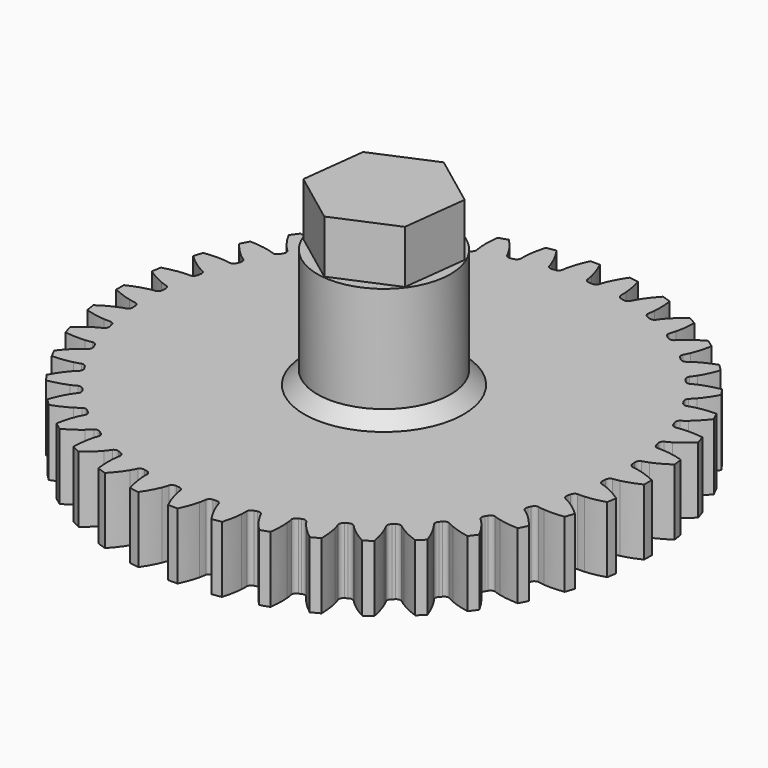
from build123d import *

# Parameters (mm, degrees)
SKETCH010_R     = 5.03
PAD007_DEPTH    = 14
PAD008_DEPTH    = 4
PAD009_DEPTH    = 5
POCKET001_DEPTH = 4


with BuildPart() as part:
    # Sketch010 → Pad007 (new body)
    with BuildSketch(Plane.XY):
        Circle(SKETCH010_R)
    extrude(amount=PAD007_DEPTH)

    # Sketch011 → Pad008 (join)
    with BuildSketch(Plane.XY.offset(14)):
        Polygon((3.951295, -2.96494), (4.543361, 1.939452), (0.592066, 4.904392), (-3.951295, 2.96494), (-4.543361, -1.939452), (-0.592066, -4.904392), align=None)
    extrude(amount=PAD008_DEPTH)

    # Sketch012 → Revolution002 (revolve)
    with BuildSketch(Plane.YZ):
        Polygon((5.03, 6), (6.03, 5), (5.03, 5), align=None)
    revolve(axis=Axis((0, 0, 0), (0, 0, 1)))

    # InvoluteGear002 → Pad009 (join)
    with BuildSketch(Plane.XY):
        with BuildLine():
            add(Edge.make_bspline(
                [(18.024562, -0.957942), (18.140787, -0.946937), (18.307583, -0.923429), (18.522739, -0.87391)],
                knots=[0, 0, 0, 0, 1, 1, 1, 1], degree=3))
            add(Edge.make_bspline(
                [(18.522739, -0.87391), (18.877968, -0.792013), (19.360047, -0.640409), (19.947321, -0.36108)],
                knots=[0, 0, 0, 0, 1, 1, 1, 1], degree=3))
            ThreePointArc((19.947321, -0.36108), (19.950589, 0), (19.947321, 0.36108))
            add(Edge.make_bspline(
                [(19.947321, 0.36108), (19.360047, 0.640409), (18.877968, 0.792013), (18.522739, 0.87391)],
                knots=[0, 0, 0, 0, 1, 1, 1, 1], degree=3))
            add(Edge.make_bspline(
                [(18.522739, 0.87391), (18.307583, 0.923429), (18.140787, 0.946937), (18.024646, 0.957929)],
                knots=[0, 0, 0, 0, 1, 1, 1, 1], degree=3))
            ThreePointArc((18.024646, 0.957929), (17.839579, 1.083098), (17.765446, 1.293861))
            ThreePointArc((17.765446, 1.293861), (17.75759, 1.397553), (17.749129, 1.501197))
            ThreePointArc((17.749129, 1.501197), (17.789353, 1.72093), (17.952505, 1.873515))
            add(Edge.make_bspline(
                [(17.952505, 1.873515), (18.065577, 1.902566), (18.226642, 1.951876), (18.431403, 2.034444)],
                knots=[0, 0, 0, 0, 1, 1, 1, 1], degree=3))
            add(Edge.make_bspline(
                [(18.431403, 2.034444), (18.769447, 2.170903), (19.221874, 2.396054), (19.758222, 2.763814)],
                knots=[0, 0, 0, 0, 1, 1, 1, 1], degree=3))
            ThreePointArc((19.758222, 2.763814), (19.704964, 3.12096), (19.645251, 3.477083))
            add(Edge.make_bspline(
                [(19.645251, 3.477083), (19.02151, 3.661103), (18.52165, 3.735427), (18.157983, 3.760746)],
                knots=[0, 0, 0, 0, 1, 1, 1, 1], degree=3))
            add(Edge.make_bspline(
                [(18.157983, 3.760746), (17.93773, 3.775997), (17.76931, 3.773123), (17.65288, 3.765812)],
                knots=[0, 0, 0, 0, 1, 1, 1, 1], degree=3))
            ThreePointArc((17.65288, 3.765812), (17.450511, 3.860488), (17.34432, 4.057059))
            ThreePointArc((17.34432, 4.057059), (17.320339, 4.158246), (17.295768, 4.25929))
            ThreePointArc((17.295768, 4.25929), (17.301124, 4.482611), (17.438398, 4.658839))
            add(Edge.make_bspline(
                [(17.438398, 4.658839), (17.545533, 4.705221), (17.696902, 4.779121), (17.886225, 4.892703)],
                knots=[0, 0, 0, 0, 1, 1, 1, 1], degree=3))
            add(Edge.make_bspline(
                [(17.886225, 4.892703), (18.19876, 5.080364), (18.610396, 5.373519), (19.08261, 5.820654)],
                knots=[0, 0, 0, 0, 1, 1, 1, 1], degree=3))
            ThreePointArc((19.08261, 5.820654), (18.974138, 6.165071), (18.85945, 6.507469))
            add(Edge.make_bspline(
                [(18.85945, 6.507469), (18.214601, 6.591648), (17.709269, 6.586862), (17.346118, 6.554979)],
                knots=[0, 0, 0, 0, 1, 1, 1, 1], degree=3))
            add(Edge.make_bspline(
                [(17.346118, 6.554979), (17.126191, 6.535588), (16.960294, 6.506402), (16.846441, 6.480967)],
                knots=[0, 0, 0, 0, 1, 1, 1, 1], degree=3))
            ThreePointArc((16.846441, 6.480967), (16.631752, 6.54282), (16.496118, 6.72036))
            ThreePointArc((16.496118, 6.72036), (16.456604, 6.816549), (16.416529, 6.912505))
            ThreePointArc((16.416529, 6.912505), (16.386883, 7.133914), (16.494899, 7.329448))
            add(Edge.make_bspline(
                [(16.494899, 7.329448), (16.59346, 7.392018), (16.731404, 7.488687), (16.900628, 7.630488)],
                knots=[0, 0, 0, 0, 1, 1, 1, 1], degree=3))
            add(Edge.make_bspline(
                [(16.900628, 7.630488), (17.179959, 7.864729), (17.540667, 8.218669), (17.93712, 8.73417)],
                knots=[0, 0, 0, 0, 1, 1, 1, 1], degree=3))
            ThreePointArc((17.93712, 8.73417), (17.776105, 9.057378), (17.609266, 9.377619))
            add(Edge.make_bspline(
                [(17.609266, 9.377619), (16.959188, 9.359886), (16.460826, 9.276107), (16.107134, 9.187807)],
                knots=[0, 0, 0, 0, 1, 1, 1, 1], degree=3))
            add(Edge.make_bspline(
                [(16.107134, 9.187807), (15.892948, 9.13425), (15.733659, 9.079472), (15.625186, 9.036539)],
                knots=[0, 0, 0, 0, 1, 1, 1, 1], degree=3))
            ThreePointArc((15.625186, 9.036539), (15.403465, 9.064046), (15.241728, 9.218182))
            ThreePointArc((15.241728, 9.218182), (15.187653, 9.307006), (15.13306, 9.395512))
            ThreePointArc((15.13306, 9.395512), (15.069143, 9.609557), (15.145241, 9.819581))
            add(Edge.make_bspline(
                [(15.145241, 9.819581), (15.2328, 9.896799), (15.353924, 10.013857), (15.498882, 10.180384)],
                knots=[0, 0, 0, 0, 1, 1, 1, 1], degree=3))
            add(Edge.make_bspline(
                [(15.498882, 10.180384), (15.73813, 10.455439), (16.03903, 10.861448), (16.34996, 11.432621)],
                knots=[0, 0, 0, 0, 1, 1, 1, 1], degree=3))
            ThreePointArc((16.34996, 11.432621), (16.140366, 11.726662), (15.925484, 12.016861))
            add(Edge.make_bspline(
                [(15.925484, 12.016861), (15.286184, 11.897651), (14.807063, 11.736943), (14.471539, 11.594401)],
                knots=[0, 0, 0, 0, 1, 1, 1, 1], degree=3))
            add(Edge.make_bspline(
                [(14.471539, 11.594401), (14.268368, 11.507997), (14.119609, 11.428975), (14.019188, 11.369602)],
                knots=[0, 0, 0, 0, 1, 1, 1, 1], degree=3))
            ThreePointArc((14.019188, 11.369602), (13.795894, 11.362086), (13.612036, 11.489023))
            ThreePointArc((13.612036, 11.489023), (13.544731, 11.568293), (13.476965, 11.64717))
            ThreePointArc((13.476965, 11.64717), (13.380351, 11.848581), (13.422657, 12.067923))
            add(Edge.make_bspline(
                [(13.422657, 12.067923), (13.497059, 12.157888), (13.598379, 12.292453), (13.715502, 12.479606)],
                knots=[0, 0, 0, 0, 1, 1, 1, 1], degree=3))
            add(Edge.make_bspline(
                [(13.715502, 12.479606), (13.908777, 12.788701), (14.142458, 13.236783), (14.360208, 13.849564)],
                knots=[0, 0, 0, 0, 1, 1, 1, 1], degree=3))
            ThreePointArc((14.360208, 13.849564), (14.107197, 14.107197), (13.849564, 14.360208))
            add(Edge.make_bspline(
                [(13.849564, 14.360208), (13.236783, 14.142458), (12.788701, 13.908777), (12.479606, 13.715502)],
                knots=[0, 0, 0, 0, 1, 1, 1, 1], degree=3))
            add(Edge.make_bspline(
                [(12.479606, 13.715502), (12.292453, 13.598379), (12.157888, 13.497059), (12.067991, 13.422708)],
                knots=[0, 0, 0, 0, 1, 1, 1, 1], degree=3))
            ThreePointArc((12.067991, 13.422708), (11.848622, 13.380353), (11.64717, 13.476965))
            ThreePointArc((11.64717, 13.476965), (11.568293, 13.544731), (11.489023, 13.612036))
            ThreePointArc((11.489023, 13.612036), (11.362091, 13.795853), (11.369563, 14.019113))
            add(Edge.make_bspline(
                [(11.369563, 14.019113), (11.428975, 14.119609), (11.507997, 14.268368), (11.594401, 14.471539)],
                knots=[0, 0, 0, 0, 1, 1, 1, 1], degree=3))
            add(Edge.make_bspline(
                [(11.594401, 14.471539), (11.736943, 14.807063), (11.897651, 15.286184), (12.016861, 15.925484)],
                knots=[0, 0, 0, 0, 1, 1, 1, 1], degree=3))
            ThreePointArc((12.016861, 15.925484), (11.726662, 16.140366), (11.432621, 16.34996))
            add(Edge.make_bspline(
                [(11.432621, 16.34996), (10.861448, 16.03903), (10.455439, 15.73813), (10.180384, 15.498882)],
                knots=[0, 0, 0, 0, 1, 1, 1, 1], degree=3))
            add(Edge.make_bspline(
                [(10.180384, 15.498882), (10.013857, 15.353924), (9.896799, 15.2328), (9.81964, 15.145302)],
                knots=[0, 0, 0, 0, 1, 1, 1, 1], degree=3))
            ThreePointArc((9.81964, 15.145302), (9.609597, 15.069151), (9.395512, 15.13306))
            ThreePointArc((9.395512, 15.13306), (9.307006, 15.187653), (9.218182, 15.241728))
            ThreePointArc((9.218182, 15.241728), (9.064057, 15.403426), (9.036512, 15.625106))
            add(Edge.make_bspline(
                [(9.036512, 15.625106), (9.079472, 15.733659), (9.13425, 15.892948), (9.187807, 16.107134)],
                knots=[0, 0, 0, 0, 1, 1, 1, 1], degree=3))
            add(Edge.make_bspline(
                [(9.187807, 16.107134), (9.276107, 16.460826), (9.359886, 16.959188), (9.377619, 17.609266)],
                knots=[0, 0, 0, 0, 1, 1, 1, 1], degree=3))
            ThreePointArc((9.377619, 17.609266), (9.057378, 17.776105), (8.73417, 17.93712))
            add(Edge.make_bspline(
                [(8.73417, 17.93712), (8.218669, 17.540667), (7.864729, 17.179959), (7.630488, 16.900628)],
                knots=[0, 0, 0, 0, 1, 1, 1, 1], degree=3))
            add(Edge.make_bspline(
                [(7.630488, 16.900628), (7.488687, 16.731404), (7.392018, 16.59346), (7.329497, 16.494968)],
                knots=[0, 0, 0, 0, 1, 1, 1, 1], degree=3))
            ThreePointArc((7.329497, 16.494968), (7.133952, 16.386897), (6.912505, 16.416529))
            ThreePointArc((6.912505, 16.416529), (6.816549, 16.456604), (6.72036, 16.496118))
            ThreePointArc((6.72036, 16.496118), (6.542837, 16.631715), (6.480953, 16.846357))
            add(Edge.make_bspline(
                [(6.480953, 16.846357), (6.506402, 16.960294), (6.535588, 17.126191), (6.554979, 17.346118)],
                knots=[0, 0, 0, 0, 1, 1, 1, 1], degree=3))
            add(Edge.make_bspline(
                [(6.554979, 17.346118), (6.586862, 17.709269), (6.591648, 18.214601), (6.507469, 18.85945)],
                knots=[0, 0, 0, 0, 1, 1, 1, 1], degree=3))
            ThreePointArc((6.507469, 18.85945), (6.165071, 18.974138), (5.820654, 19.08261))
            add(Edge.make_bspline(
                [(5.820654, 19.08261), (5.373519, 18.610396), (5.080364, 18.19876), (4.892703, 17.886225)],
                knots=[0, 0, 0, 0, 1, 1, 1, 1], degree=3))
            add(Edge.make_bspline(
                [(4.892703, 17.886225), (4.779121, 17.696902), (4.705221, 17.545533), (4.658877, 17.438474)],
                knots=[0, 0, 0, 0, 1, 1, 1, 1], degree=3))
            ThreePointArc((4.658877, 17.438474), (4.482646, 17.301144), (4.25929, 17.295768))
            ThreePointArc((4.25929, 17.295768), (4.158246, 17.320339), (4.057059, 17.34432))
            ThreePointArc((4.057059, 17.34432), (3.86051, 17.450477), (3.765811, 17.652795))
            add(Edge.make_bspline(
                [(3.765811, 17.652795), (3.773123, 17.76931), (3.775997, 17.93773), (3.760746, 18.157983)],
                knots=[0, 0, 0, 0, 1, 1, 1, 1], degree=3))
            add(Edge.make_bspline(
                [(3.760746, 18.157983), (3.735427, 18.52165), (3.661103, 19.02151), (3.477083, 19.645251)],
                knots=[0, 0, 0, 0, 1, 1, 1, 1], degree=3))
            ThreePointArc((3.477083, 19.645251), (3.12096, 19.704964), (2.763814, 19.758222))
            add(Edge.make_bspline(
                [(2.763814, 19.758222), (2.396054, 19.221874), (2.170903, 18.769447), (2.034444, 18.431403)],
                knots=[0, 0, 0, 0, 1, 1, 1, 1], degree=3))
            add(Edge.make_bspline(
                [(2.034444, 18.431403), (1.951876, 18.226642), (1.902566, 18.065577), (1.87354, 17.952586)],
                knots=[0, 0, 0, 0, 1, 1, 1, 1], degree=3))
            ThreePointArc((1.87354, 17.952586), (1.720962, 17.789378), (1.501197, 17.749129))
            ThreePointArc((1.501197, 17.749129), (1.397553, 17.75759), (1.293861, 17.765446))
            ThreePointArc((1.293861, 17.765446), (1.083125, 17.839549), (0.957942, 18.024562))
            add(Edge.make_bspline(
                [(0.957942, 18.024562), (0.946937, 18.140787), (0.923429, 18.307583), (0.87391, 18.522739)],
                knots=[0, 0, 0, 0, 1, 1, 1, 1], degree=3))
            add(Edge.make_bspline(
                [(0.87391, 18.522739), (0.792013, 18.877968), (0.640409, 19.360047), (0.36108, 19.947321)],
                knots=[0, 0, 0, 0, 1, 1, 1, 1], degree=3))
            ThreePointArc((0.36108, 19.947321), (0, 19.950589), (-0.36108, 19.947321))
            add(Edge.make_bspline(
                [(-0.36108, 19.947321), (-0.640409, 19.360047), (-0.792013, 18.877968), (-0.87391, 18.522739)],
                knots=[0, 0, 0, 0, 1, 1, 1, 1], degree=3))
            add(Edge.make_bspline(
                [(-0.87391, 18.522739), (-0.923429, 18.307583), (-0.946937, 18.140787), (-0.957929, 18.024646)],
                knots=[0, 0, 0, 0, 1, 1, 1, 1], degree=3))
            ThreePointArc((-0.957929, 18.024646), (-1.083098, 17.839579), (-1.293861, 17.765446))
            ThreePointArc((-1.293861, 17.765446), (-1.397553, 17.75759), (-1.501197, 17.749129))
            ThreePointArc((-1.501197, 17.749129), (-1.72093, 17.789353), (-1.873515, 17.952505))
            add(Edge.make_bspline(
                [(-1.873515, 17.952505), (-1.902566, 18.065577), (-1.951876, 18.226642), (-2.034444, 18.431403)],
                knots=[0, 0, 0, 0, 1, 1, 1, 1], degree=3))
            add(Edge.make_bspline(
                [(-2.034444, 18.431403), (-2.170903, 18.769447), (-2.396054, 19.221874), (-2.763814, 19.758222)],
                knots=[0, 0, 0, 0, 1, 1, 1, 1], degree=3))
            ThreePointArc((-2.763814, 19.758222), (-3.12096, 19.704964), (-3.477083, 19.645251))
            add(Edge.make_bspline(
                [(-3.477083, 19.645251), (-3.661103, 19.02151), (-3.735427, 18.52165), (-3.760746, 18.157983)],
                knots=[0, 0, 0, 0, 1, 1, 1, 1], degree=3))
            add(Edge.make_bspline(
                [(-3.760746, 18.157983), (-3.775997, 17.93773), (-3.773123, 17.76931), (-3.765812, 17.65288)],
                knots=[0, 0, 0, 0, 1, 1, 1, 1], degree=3))
            ThreePointArc((-3.765812, 17.65288), (-3.860488, 17.450511), (-4.057059, 17.34432))
            ThreePointArc((-4.057059, 17.34432), (-4.158246, 17.320339), (-4.25929, 17.295768))
            ThreePointArc((-4.25929, 17.295768), (-4.482611, 17.301124), (-4.658839, 17.438398))
            add(Edge.make_bspline(
                [(-4.658839, 17.438398), (-4.705221, 17.545533), (-4.779121, 17.696902), (-4.892703, 17.886225)],
                knots=[0, 0, 0, 0, 1, 1, 1, 1], degree=3))
            add(Edge.make_bspline(
                [(-4.892703, 17.886225), (-5.080364, 18.19876), (-5.373519, 18.610396), (-5.820654, 19.08261)],
                knots=[0, 0, 0, 0, 1, 1, 1, 1], degree=3))
            ThreePointArc((-5.820654, 19.08261), (-6.165071, 18.974138), (-6.507469, 18.85945))
            add(Edge.make_bspline(
                [(-6.507469, 18.85945), (-6.591648, 18.214601), (-6.586862, 17.709269), (-6.554979, 17.346118)],
                knots=[0, 0, 0, 0, 1, 1, 1, 1], degree=3))
            add(Edge.make_bspline(
                [(-6.554979, 17.346118), (-6.535588, 17.126191), (-6.506402, 16.960294), (-6.480967, 16.846441)],
                knots=[0, 0, 0, 0, 1, 1, 1, 1], degree=3))
            ThreePointArc((-6.480967, 16.846441), (-6.54282, 16.631752), (-6.72036, 16.496118))
            ThreePointArc((-6.72036, 16.496118), (-6.816549, 16.456604), (-6.912505, 16.416529))
            ThreePointArc((-6.912505, 16.416529), (-7.133914, 16.386883), (-7.329448, 16.494899))
            add(Edge.make_bspline(
                [(-7.329448, 16.494899), (-7.392018, 16.59346), (-7.488687, 16.731404), (-7.630488, 16.900628)],
                knots=[0, 0, 0, 0, 1, 1, 1, 1], degree=3))
            add(Edge.make_bspline(
                [(-7.630488, 16.900628), (-7.864729, 17.179959), (-8.218669, 17.540667), (-8.73417, 17.93712)],
                knots=[0, 0, 0, 0, 1, 1, 1, 1], degree=3))
            ThreePointArc((-8.73417, 17.93712), (-9.057378, 17.776105), (-9.377619, 17.609266))
            add(Edge.make_bspline(
                [(-9.377619, 17.609266), (-9.359886, 16.959188), (-9.276107, 16.460826), (-9.187807, 16.107134)],
                knots=[0, 0, 0, 0, 1, 1, 1, 1], degree=3))
            add(Edge.make_bspline(
                [(-9.187807, 16.107134), (-9.13425, 15.892948), (-9.079472, 15.733659), (-9.036539, 15.625186)],
                knots=[0, 0, 0, 0, 1, 1, 1, 1], degree=3))
            ThreePointArc((-9.036539, 15.625186), (-9.064046, 15.403465), (-9.218182, 15.241728))
            ThreePointArc((-9.218182, 15.241728), (-9.307006, 15.187653), (-9.395512, 15.13306))
            ThreePointArc((-9.395512, 15.13306), (-9.609557, 15.069143), (-9.819581, 15.145241))
            add(Edge.make_bspline(
                [(-9.819581, 15.145241), (-9.896799, 15.2328), (-10.013857, 15.353924), (-10.180384, 15.498882)],
                knots=[0, 0, 0, 0, 1, 1, 1, 1], degree=3))
            add(Edge.make_bspline(
                [(-10.180384, 15.498882), (-10.455439, 15.73813), (-10.861448, 16.03903), (-11.432621, 16.34996)],
                knots=[0, 0, 0, 0, 1, 1, 1, 1], degree=3))
            ThreePointArc((-11.432621, 16.34996), (-11.726662, 16.140366), (-12.016861, 15.925484))
            add(Edge.make_bspline(
                [(-12.016861, 15.925484), (-11.897651, 15.286184), (-11.736943, 14.807063), (-11.594401, 14.471539)],
                knots=[0, 0, 0, 0, 1, 1, 1, 1], degree=3))
            add(Edge.make_bspline(
                [(-11.594401, 14.471539), (-11.507997, 14.268368), (-11.428975, 14.119609), (-11.369602, 14.019188)],
                knots=[0, 0, 0, 0, 1, 1, 1, 1], degree=3))
            ThreePointArc((-11.369602, 14.019188), (-11.362086, 13.795894), (-11.489023, 13.612036))
            ThreePointArc((-11.489023, 13.612036), (-11.568293, 13.544731), (-11.64717, 13.476965))
            ThreePointArc((-11.64717, 13.476965), (-11.848581, 13.380351), (-12.067923, 13.422657))
            add(Edge.make_bspline(
                [(-12.067923, 13.422657), (-12.157888, 13.497059), (-12.292453, 13.598379), (-12.479606, 13.715502)],
                knots=[0, 0, 0, 0, 1, 1, 1, 1], degree=3))
            add(Edge.make_bspline(
                [(-12.479606, 13.715502), (-12.788701, 13.908777), (-13.236783, 14.142458), (-13.849564, 14.360208)],
                knots=[0, 0, 0, 0, 1, 1, 1, 1], degree=3))
            ThreePointArc((-13.849564, 14.360208), (-14.107197, 14.107197), (-14.360208, 13.849564))
            add(Edge.make_bspline(
                [(-14.360208, 13.849564), (-14.142458, 13.236783), (-13.908777, 12.788701), (-13.715502, 12.479606)],
                knots=[0, 0, 0, 0, 1, 1, 1, 1], degree=3))
            add(Edge.make_bspline(
                [(-13.715502, 12.479606), (-13.598379, 12.292453), (-13.497059, 12.157888), (-13.422708, 12.067991)],
                knots=[0, 0, 0, 0, 1, 1, 1, 1], degree=3))
            ThreePointArc((-13.422708, 12.067991), (-13.380353, 11.848622), (-13.476965, 11.64717))
            ThreePointArc((-13.476965, 11.64717), (-13.544731, 11.568293), (-13.612036, 11.489023))
            ThreePointArc((-13.612036, 11.489023), (-13.795853, 11.362091), (-14.019113, 11.369563))
            add(Edge.make_bspline(
                [(-14.019113, 11.369563), (-14.119609, 11.428975), (-14.268368, 11.507997), (-14.471539, 11.594401)],
                knots=[0, 0, 0, 0, 1, 1, 1, 1], degree=3))
            add(Edge.make_bspline(
                [(-14.471539, 11.594401), (-14.807063, 11.736943), (-15.286184, 11.897651), (-15.925484, 12.016861)],
                knots=[0, 0, 0, 0, 1, 1, 1, 1], degree=3))
            ThreePointArc((-15.925484, 12.016861), (-16.140366, 11.726662), (-16.34996, 11.432621))
            add(Edge.make_bspline(
                [(-16.34996, 11.432621), (-16.03903, 10.861448), (-15.73813, 10.455439), (-15.498882, 10.180384)],
                knots=[0, 0, 0, 0, 1, 1, 1, 1], degree=3))
            add(Edge.make_bspline(
                [(-15.498882, 10.180384), (-15.353924, 10.013857), (-15.2328, 9.896799), (-15.145302, 9.81964)],
                knots=[0, 0, 0, 0, 1, 1, 1, 1], degree=3))
            ThreePointArc((-15.145302, 9.81964), (-15.069151, 9.609597), (-15.13306, 9.395512))
            ThreePointArc((-15.13306, 9.395512), (-15.187653, 9.307006), (-15.241728, 9.218182))
            ThreePointArc((-15.241728, 9.218182), (-15.403426, 9.064057), (-15.625106, 9.036512))
            add(Edge.make_bspline(
                [(-15.625106, 9.036512), (-15.733659, 9.079472), (-15.892948, 9.13425), (-16.107134, 9.187807)],
                knots=[0, 0, 0, 0, 1, 1, 1, 1], degree=3))
            add(Edge.make_bspline(
                [(-16.107134, 9.187807), (-16.460826, 9.276107), (-16.959188, 9.359886), (-17.609266, 9.377619)],
                knots=[0, 0, 0, 0, 1, 1, 1, 1], degree=3))
            ThreePointArc((-17.609266, 9.377619), (-17.776105, 9.057378), (-17.93712, 8.73417))
            add(Edge.make_bspline(
                [(-17.93712, 8.73417), (-17.540667, 8.218669), (-17.179959, 7.864729), (-16.900628, 7.630488)],
                knots=[0, 0, 0, 0, 1, 1, 1, 1], degree=3))
            add(Edge.make_bspline(
                [(-16.900628, 7.630488), (-16.731404, 7.488687), (-16.59346, 7.392018), (-16.494968, 7.329497)],
                knots=[0, 0, 0, 0, 1, 1, 1, 1], degree=3))
            ThreePointArc((-16.494968, 7.329497), (-16.386897, 7.133952), (-16.416529, 6.912505))
            ThreePointArc((-16.416529, 6.912505), (-16.456604, 6.816549), (-16.496118, 6.72036))
            ThreePointArc((-16.496118, 6.72036), (-16.631715, 6.542837), (-16.846357, 6.480953))
            add(Edge.make_bspline(
                [(-16.846357, 6.480953), (-16.960294, 6.506402), (-17.126191, 6.535588), (-17.346118, 6.554979)],
                knots=[0, 0, 0, 0, 1, 1, 1, 1], degree=3))
            add(Edge.make_bspline(
                [(-17.346118, 6.554979), (-17.709269, 6.586862), (-18.214601, 6.591648), (-18.85945, 6.507469)],
                knots=[0, 0, 0, 0, 1, 1, 1, 1], degree=3))
            ThreePointArc((-18.85945, 6.507469), (-18.974138, 6.165071), (-19.08261, 5.820654))
            add(Edge.make_bspline(
                [(-19.08261, 5.820654), (-18.610396, 5.373519), (-18.19876, 5.080364), (-17.886225, 4.892703)],
                knots=[0, 0, 0, 0, 1, 1, 1, 1], degree=3))
            add(Edge.make_bspline(
                [(-17.886225, 4.892703), (-17.696902, 4.779121), (-17.545533, 4.705221), (-17.438474, 4.658877)],
                knots=[0, 0, 0, 0, 1, 1, 1, 1], degree=3))
            ThreePointArc((-17.438474, 4.658877), (-17.301144, 4.482646), (-17.295768, 4.25929))
            ThreePointArc((-17.295768, 4.25929), (-17.320339, 4.158246), (-17.34432, 4.057059))
            ThreePointArc((-17.34432, 4.057059), (-17.450477, 3.86051), (-17.652795, 3.765811))
            add(Edge.make_bspline(
                [(-17.652795, 3.765811), (-17.76931, 3.773123), (-17.93773, 3.775997), (-18.157983, 3.760746)],
                knots=[0, 0, 0, 0, 1, 1, 1, 1], degree=3))
            add(Edge.make_bspline(
                [(-18.157983, 3.760746), (-18.52165, 3.735427), (-19.02151, 3.661103), (-19.645251, 3.477083)],
                knots=[0, 0, 0, 0, 1, 1, 1, 1], degree=3))
            ThreePointArc((-19.645251, 3.477083), (-19.704964, 3.12096), (-19.758222, 2.763814))
            add(Edge.make_bspline(
                [(-19.758222, 2.763814), (-19.221874, 2.396054), (-18.769447, 2.170903), (-18.431403, 2.034444)],
                knots=[0, 0, 0, 0, 1, 1, 1, 1], degree=3))
            add(Edge.make_bspline(
                [(-18.431403, 2.034444), (-18.226642, 1.951876), (-18.065577, 1.902566), (-17.952586, 1.87354)],
                knots=[0, 0, 0, 0, 1, 1, 1, 1], degree=3))
            ThreePointArc((-17.952586, 1.87354), (-17.789378, 1.720962), (-17.749129, 1.501197))
            ThreePointArc((-17.749129, 1.501197), (-17.75759, 1.397553), (-17.765446, 1.293861))
            ThreePointArc((-17.765446, 1.293861), (-17.839549, 1.083125), (-18.024562, 0.957942))
            add(Edge.make_bspline(
                [(-18.024562, 0.957942), (-18.140787, 0.946937), (-18.307583, 0.923429), (-18.522739, 0.87391)],
                knots=[0, 0, 0, 0, 1, 1, 1, 1], degree=3))
            add(Edge.make_bspline(
                [(-18.522739, 0.87391), (-18.877968, 0.792013), (-19.360047, 0.640409), (-19.947321, 0.36108)],
                knots=[0, 0, 0, 0, 1, 1, 1, 1], degree=3))
            ThreePointArc((-19.947321, 0.36108), (-19.950589, 0), (-19.947321, -0.36108))
            add(Edge.make_bspline(
                [(-19.947321, -0.36108), (-19.360047, -0.640409), (-18.877968, -0.792013), (-18.522739, -0.87391)],
                knots=[0, 0, 0, 0, 1, 1, 1, 1], degree=3))
            add(Edge.make_bspline(
                [(-18.522739, -0.87391), (-18.307583, -0.923429), (-18.140787, -0.946937), (-18.024646, -0.957929)],
                knots=[0, 0, 0, 0, 1, 1, 1, 1], degree=3))
            ThreePointArc((-18.024646, -0.957929), (-17.839579, -1.083098), (-17.765446, -1.293861))
            ThreePointArc((-17.765446, -1.293861), (-17.75759, -1.397553), (-17.749129, -1.501197))
            ThreePointArc((-17.749129, -1.501197), (-17.789353, -1.72093), (-17.952505, -1.873515))
            add(Edge.make_bspline(
                [(-17.952505, -1.873515), (-18.065577, -1.902566), (-18.226642, -1.951876), (-18.431403, -2.034444)],
                knots=[0, 0, 0, 0, 1, 1, 1, 1], degree=3))
            add(Edge.make_bspline(
                [(-18.431403, -2.034444), (-18.769447, -2.170903), (-19.221874, -2.396054), (-19.758222, -2.763814)],
                knots=[0, 0, 0, 0, 1, 1, 1, 1], degree=3))
            ThreePointArc((-19.758222, -2.763814), (-19.704964, -3.12096), (-19.645251, -3.477083))
            add(Edge.make_bspline(
                [(-19.645251, -3.477083), (-19.02151, -3.661103), (-18.52165, -3.735427), (-18.157983, -3.760746)],
                knots=[0, 0, 0, 0, 1, 1, 1, 1], degree=3))
            add(Edge.make_bspline(
                [(-18.157983, -3.760746), (-17.93773, -3.775997), (-17.76931, -3.773123), (-17.65288, -3.765812)],
                knots=[0, 0, 0, 0, 1, 1, 1, 1], degree=3))
            ThreePointArc((-17.65288, -3.765812), (-17.450511, -3.860488), (-17.34432, -4.057059))
            ThreePointArc((-17.34432, -4.057059), (-17.320339, -4.158246), (-17.295768, -4.25929))
            ThreePointArc((-17.295768, -4.25929), (-17.301124, -4.482611), (-17.438398, -4.658839))
            add(Edge.make_bspline(
                [(-17.438398, -4.658839), (-17.545533, -4.705221), (-17.696902, -4.779121), (-17.886225, -4.892703)],
                knots=[0, 0, 0, 0, 1, 1, 1, 1], degree=3))
            add(Edge.make_bspline(
                [(-17.886225, -4.892703), (-18.19876, -5.080364), (-18.610396, -5.373519), (-19.08261, -5.820654)],
                knots=[0, 0, 0, 0, 1, 1, 1, 1], degree=3))
            ThreePointArc((-19.08261, -5.820654), (-18.974138, -6.165071), (-18.85945, -6.507469))
            add(Edge.make_bspline(
                [(-18.85945, -6.507469), (-18.214601, -6.591648), (-17.709269, -6.586862), (-17.346118, -6.554979)],
                knots=[0, 0, 0, 0, 1, 1, 1, 1], degree=3))
            add(Edge.make_bspline(
                [(-17.346118, -6.554979), (-17.126191, -6.535588), (-16.960294, -6.506402), (-16.846441, -6.480967)],
                knots=[0, 0, 0, 0, 1, 1, 1, 1], degree=3))
            ThreePointArc((-16.846441, -6.480967), (-16.631752, -6.54282), (-16.496118, -6.72036))
            ThreePointArc((-16.496118, -6.72036), (-16.456604, -6.816549), (-16.416529, -6.912505))
            ThreePointArc((-16.416529, -6.912505), (-16.386883, -7.133914), (-16.494899, -7.329448))
            add(Edge.make_bspline(
                [(-16.494899, -7.329448), (-16.59346, -7.392018), (-16.731404, -7.488687), (-16.900628, -7.630488)],
                knots=[0, 0, 0, 0, 1, 1, 1, 1], degree=3))
            add(Edge.make_bspline(
                [(-16.900628, -7.630488), (-17.179959, -7.864729), (-17.540667, -8.218669), (-17.93712, -8.73417)],
                knots=[0, 0, 0, 0, 1, 1, 1, 1], degree=3))
            ThreePointArc((-17.93712, -8.73417), (-17.776105, -9.057378), (-17.609266, -9.377619))
            add(Edge.make_bspline(
                [(-17.609266, -9.377619), (-16.959188, -9.359886), (-16.460826, -9.276107), (-16.107134, -9.187807)],
                knots=[0, 0, 0, 0, 1, 1, 1, 1], degree=3))
            add(Edge.make_bspline(
                [(-16.107134, -9.187807), (-15.892948, -9.13425), (-15.733659, -9.079472), (-15.625186, -9.036539)],
                knots=[0, 0, 0, 0, 1, 1, 1, 1], degree=3))
            ThreePointArc((-15.625186, -9.036539), (-15.403465, -9.064046), (-15.241728, -9.218182))
            ThreePointArc((-15.241728, -9.218182), (-15.187653, -9.307006), (-15.13306, -9.395512))
            ThreePointArc((-15.13306, -9.395512), (-15.069143, -9.609557), (-15.145241, -9.819581))
            add(Edge.make_bspline(
                [(-15.145241, -9.819581), (-15.2328, -9.896799), (-15.353924, -10.013857), (-15.498882, -10.180384)],
                knots=[0, 0, 0, 0, 1, 1, 1, 1], degree=3))
            add(Edge.make_bspline(
                [(-15.498882, -10.180384), (-15.73813, -10.455439), (-16.03903, -10.861448), (-16.34996, -11.432621)],
                knots=[0, 0, 0, 0, 1, 1, 1, 1], degree=3))
            ThreePointArc((-16.34996, -11.432621), (-16.140366, -11.726662), (-15.925484, -12.016861))
            add(Edge.make_bspline(
                [(-15.925484, -12.016861), (-15.286184, -11.897651), (-14.807063, -11.736943), (-14.471539, -11.594401)],
                knots=[0, 0, 0, 0, 1, 1, 1, 1], degree=3))
            add(Edge.make_bspline(
                [(-14.471539, -11.594401), (-14.268368, -11.507997), (-14.119609, -11.428975), (-14.019188, -11.369602)],
                knots=[0, 0, 0, 0, 1, 1, 1, 1], degree=3))
            ThreePointArc((-14.019188, -11.369602), (-13.795894, -11.362086), (-13.612036, -11.489023))
            ThreePointArc((-13.612036, -11.489023), (-13.544731, -11.568293), (-13.476965, -11.64717))
            ThreePointArc((-13.476965, -11.64717), (-13.380351, -11.848581), (-13.422657, -12.067923))
            add(Edge.make_bspline(
                [(-13.422657, -12.067923), (-13.497059, -12.157888), (-13.598379, -12.292453), (-13.715502, -12.479606)],
                knots=[0, 0, 0, 0, 1, 1, 1, 1], degree=3))
            add(Edge.make_bspline(
                [(-13.715502, -12.479606), (-13.908777, -12.788701), (-14.142458, -13.236783), (-14.360208, -13.849564)],
                knots=[0, 0, 0, 0, 1, 1, 1, 1], degree=3))
            ThreePointArc((-14.360208, -13.849564), (-14.107197, -14.107197), (-13.849564, -14.360208))
            add(Edge.make_bspline(
                [(-13.849564, -14.360208), (-13.236783, -14.142458), (-12.788701, -13.908777), (-12.479606, -13.715502)],
                knots=[0, 0, 0, 0, 1, 1, 1, 1], degree=3))
            add(Edge.make_bspline(
                [(-12.479606, -13.715502), (-12.292453, -13.598379), (-12.157888, -13.497059), (-12.067991, -13.422708)],
                knots=[0, 0, 0, 0, 1, 1, 1, 1], degree=3))
            ThreePointArc((-12.067991, -13.422708), (-11.848622, -13.380353), (-11.64717, -13.476965))
            ThreePointArc((-11.64717, -13.476965), (-11.568293, -13.544731), (-11.489023, -13.612036))
            ThreePointArc((-11.489023, -13.612036), (-11.362091, -13.795853), (-11.369563, -14.019113))
            add(Edge.make_bspline(
                [(-11.369563, -14.019113), (-11.428975, -14.119609), (-11.507997, -14.268368), (-11.594401, -14.471539)],
                knots=[0, 0, 0, 0, 1, 1, 1, 1], degree=3))
            add(Edge.make_bspline(
                [(-11.594401, -14.471539), (-11.736943, -14.807063), (-11.897651, -15.286184), (-12.016861, -15.925484)],
                knots=[0, 0, 0, 0, 1, 1, 1, 1], degree=3))
            ThreePointArc((-12.016861, -15.925484), (-11.726662, -16.140366), (-11.432621, -16.34996))
            add(Edge.make_bspline(
                [(-11.432621, -16.34996), (-10.861448, -16.03903), (-10.455439, -15.73813), (-10.180384, -15.498882)],
                knots=[0, 0, 0, 0, 1, 1, 1, 1], degree=3))
            add(Edge.make_bspline(
                [(-10.180384, -15.498882), (-10.013857, -15.353924), (-9.896799, -15.2328), (-9.81964, -15.145302)],
                knots=[0, 0, 0, 0, 1, 1, 1, 1], degree=3))
            ThreePointArc((-9.81964, -15.145302), (-9.609597, -15.069151), (-9.395512, -15.13306))
            ThreePointArc((-9.395512, -15.13306), (-9.307006, -15.187653), (-9.218182, -15.241728))
            ThreePointArc((-9.218182, -15.241728), (-9.064057, -15.403426), (-9.036512, -15.625106))
            add(Edge.make_bspline(
                [(-9.036512, -15.625106), (-9.079472, -15.733659), (-9.13425, -15.892948), (-9.187807, -16.107134)],
                knots=[0, 0, 0, 0, 1, 1, 1, 1], degree=3))
            add(Edge.make_bspline(
                [(-9.187807, -16.107134), (-9.276107, -16.460826), (-9.359886, -16.959188), (-9.377619, -17.609266)],
                knots=[0, 0, 0, 0, 1, 1, 1, 1], degree=3))
            ThreePointArc((-9.377619, -17.609266), (-9.057378, -17.776105), (-8.73417, -17.93712))
            add(Edge.make_bspline(
                [(-8.73417, -17.93712), (-8.218669, -17.540667), (-7.864729, -17.179959), (-7.630488, -16.900628)],
                knots=[0, 0, 0, 0, 1, 1, 1, 1], degree=3))
            add(Edge.make_bspline(
                [(-7.630488, -16.900628), (-7.488687, -16.731404), (-7.392018, -16.59346), (-7.329497, -16.494968)],
                knots=[0, 0, 0, 0, 1, 1, 1, 1], degree=3))
            ThreePointArc((-7.329497, -16.494968), (-7.133952, -16.386897), (-6.912505, -16.416529))
            ThreePointArc((-6.912505, -16.416529), (-6.816549, -16.456604), (-6.72036, -16.496118))
            ThreePointArc((-6.72036, -16.496118), (-6.542837, -16.631715), (-6.480953, -16.846357))
            add(Edge.make_bspline(
                [(-6.480953, -16.846357), (-6.506402, -16.960294), (-6.535588, -17.126191), (-6.554979, -17.346118)],
                knots=[0, 0, 0, 0, 1, 1, 1, 1], degree=3))
            add(Edge.make_bspline(
                [(-6.554979, -17.346118), (-6.586862, -17.709269), (-6.591648, -18.214601), (-6.507469, -18.85945)],
                knots=[0, 0, 0, 0, 1, 1, 1, 1], degree=3))
            ThreePointArc((-6.507469, -18.85945), (-6.165071, -18.974138), (-5.820654, -19.08261))
            add(Edge.make_bspline(
                [(-5.820654, -19.08261), (-5.373519, -18.610396), (-5.080364, -18.19876), (-4.892703, -17.886225)],
                knots=[0, 0, 0, 0, 1, 1, 1, 1], degree=3))
            add(Edge.make_bspline(
                [(-4.892703, -17.886225), (-4.779121, -17.696902), (-4.705221, -17.545533), (-4.658877, -17.438474)],
                knots=[0, 0, 0, 0, 1, 1, 1, 1], degree=3))
            ThreePointArc((-4.658877, -17.438474), (-4.482646, -17.301144), (-4.25929, -17.295768))
            ThreePointArc((-4.25929, -17.295768), (-4.158246, -17.320339), (-4.057059, -17.34432))
            ThreePointArc((-4.057059, -17.34432), (-3.86051, -17.450477), (-3.765811, -17.652795))
            add(Edge.make_bspline(
                [(-3.765811, -17.652795), (-3.773123, -17.76931), (-3.775997, -17.93773), (-3.760746, -18.157983)],
                knots=[0, 0, 0, 0, 1, 1, 1, 1], degree=3))
            add(Edge.make_bspline(
                [(-3.760746, -18.157983), (-3.735427, -18.52165), (-3.661103, -19.02151), (-3.477083, -19.645251)],
                knots=[0, 0, 0, 0, 1, 1, 1, 1], degree=3))
            ThreePointArc((-3.477083, -19.645251), (-3.12096, -19.704964), (-2.763814, -19.758222))
            add(Edge.make_bspline(
                [(-2.763814, -19.758222), (-2.396054, -19.221874), (-2.170903, -18.769447), (-2.034444, -18.431403)],
                knots=[0, 0, 0, 0, 1, 1, 1, 1], degree=3))
            add(Edge.make_bspline(
                [(-2.034444, -18.431403), (-1.951876, -18.226642), (-1.902566, -18.065577), (-1.87354, -17.952586)],
                knots=[0, 0, 0, 0, 1, 1, 1, 1], degree=3))
            ThreePointArc((-1.87354, -17.952586), (-1.720962, -17.789378), (-1.501197, -17.749129))
            ThreePointArc((-1.501197, -17.749129), (-1.397553, -17.75759), (-1.293861, -17.765446))
            ThreePointArc((-1.293861, -17.765446), (-1.083125, -17.839549), (-0.957942, -18.024562))
            add(Edge.make_bspline(
                [(-0.957942, -18.024562), (-0.946937, -18.140787), (-0.923429, -18.307583), (-0.87391, -18.522739)],
                knots=[0, 0, 0, 0, 1, 1, 1, 1], degree=3))
            add(Edge.make_bspline(
                [(-0.87391, -18.522739), (-0.792013, -18.877968), (-0.640409, -19.360047), (-0.36108, -19.947321)],
                knots=[0, 0, 0, 0, 1, 1, 1, 1], degree=3))
            ThreePointArc((-0.36108, -19.947321), (0, -19.950589), (0.36108, -19.947321))
            add(Edge.make_bspline(
                [(0.36108, -19.947321), (0.640409, -19.360047), (0.792013, -18.877968), (0.87391, -18.522739)],
                knots=[0, 0, 0, 0, 1, 1, 1, 1], degree=3))
            add(Edge.make_bspline(
                [(0.87391, -18.522739), (0.923429, -18.307583), (0.946937, -18.140787), (0.957929, -18.024646)],
                knots=[0, 0, 0, 0, 1, 1, 1, 1], degree=3))
            ThreePointArc((0.957929, -18.024646), (1.083098, -17.839579), (1.293861, -17.765446))
            ThreePointArc((1.293861, -17.765446), (1.397553, -17.75759), (1.501197, -17.749129))
            ThreePointArc((1.501197, -17.749129), (1.72093, -17.789353), (1.873515, -17.952505))
            add(Edge.make_bspline(
                [(1.873515, -17.952505), (1.902566, -18.065577), (1.951876, -18.226642), (2.034444, -18.431403)],
                knots=[0, 0, 0, 0, 1, 1, 1, 1], degree=3))
            add(Edge.make_bspline(
                [(2.034444, -18.431403), (2.170903, -18.769447), (2.396054, -19.221874), (2.763814, -19.758222)],
                knots=[0, 0, 0, 0, 1, 1, 1, 1], degree=3))
            ThreePointArc((2.763814, -19.758222), (3.12096, -19.704964), (3.477083, -19.645251))
            add(Edge.make_bspline(
                [(3.477083, -19.645251), (3.661103, -19.02151), (3.735427, -18.52165), (3.760746, -18.157983)],
                knots=[0, 0, 0, 0, 1, 1, 1, 1], degree=3))
            add(Edge.make_bspline(
                [(3.760746, -18.157983), (3.775997, -17.93773), (3.773123, -17.76931), (3.765812, -17.65288)],
                knots=[0, 0, 0, 0, 1, 1, 1, 1], degree=3))
            ThreePointArc((3.765812, -17.65288), (3.860488, -17.450511), (4.057059, -17.34432))
            ThreePointArc((4.057059, -17.34432), (4.158246, -17.320339), (4.25929, -17.295768))
            ThreePointArc((4.25929, -17.295768), (4.482611, -17.301124), (4.658839, -17.438398))
            add(Edge.make_bspline(
                [(4.658839, -17.438398), (4.705221, -17.545533), (4.779121, -17.696902), (4.892703, -17.886225)],
                knots=[0, 0, 0, 0, 1, 1, 1, 1], degree=3))
            add(Edge.make_bspline(
                [(4.892703, -17.886225), (5.080364, -18.19876), (5.373519, -18.610396), (5.820654, -19.08261)],
                knots=[0, 0, 0, 0, 1, 1, 1, 1], degree=3))
            ThreePointArc((5.820654, -19.08261), (6.165071, -18.974138), (6.507469, -18.85945))
            add(Edge.make_bspline(
                [(6.507469, -18.85945), (6.591648, -18.214601), (6.586862, -17.709269), (6.554979, -17.346118)],
                knots=[0, 0, 0, 0, 1, 1, 1, 1], degree=3))
            add(Edge.make_bspline(
                [(6.554979, -17.346118), (6.535588, -17.126191), (6.506402, -16.960294), (6.480967, -16.846441)],
                knots=[0, 0, 0, 0, 1, 1, 1, 1], degree=3))
            ThreePointArc((6.480967, -16.846441), (6.54282, -16.631752), (6.72036, -16.496118))
            ThreePointArc((6.72036, -16.496118), (6.816549, -16.456604), (6.912505, -16.416529))
            ThreePointArc((6.912505, -16.416529), (7.133914, -16.386883), (7.329448, -16.494899))
            add(Edge.make_bspline(
                [(7.329448, -16.494899), (7.392018, -16.59346), (7.488687, -16.731404), (7.630488, -16.900628)],
                knots=[0, 0, 0, 0, 1, 1, 1, 1], degree=3))
            add(Edge.make_bspline(
                [(7.630488, -16.900628), (7.864729, -17.179959), (8.218669, -17.540667), (8.73417, -17.93712)],
                knots=[0, 0, 0, 0, 1, 1, 1, 1], degree=3))
            ThreePointArc((8.73417, -17.93712), (9.057378, -17.776105), (9.377619, -17.609266))
            add(Edge.make_bspline(
                [(9.377619, -17.609266), (9.359886, -16.959188), (9.276107, -16.460826), (9.187807, -16.107134)],
                knots=[0, 0, 0, 0, 1, 1, 1, 1], degree=3))
            add(Edge.make_bspline(
                [(9.187807, -16.107134), (9.13425, -15.892948), (9.079472, -15.733659), (9.036539, -15.625186)],
                knots=[0, 0, 0, 0, 1, 1, 1, 1], degree=3))
            ThreePointArc((9.036539, -15.625186), (9.064046, -15.403465), (9.218182, -15.241728))
            ThreePointArc((9.218182, -15.241728), (9.307006, -15.187653), (9.395512, -15.13306))
            ThreePointArc((9.395512, -15.13306), (9.609557, -15.069143), (9.819581, -15.145241))
            add(Edge.make_bspline(
                [(9.819581, -15.145241), (9.896799, -15.2328), (10.013857, -15.353924), (10.180384, -15.498882)],
                knots=[0, 0, 0, 0, 1, 1, 1, 1], degree=3))
            add(Edge.make_bspline(
                [(10.180384, -15.498882), (10.455439, -15.73813), (10.861448, -16.03903), (11.432621, -16.34996)],
                knots=[0, 0, 0, 0, 1, 1, 1, 1], degree=3))
            ThreePointArc((11.432621, -16.34996), (11.726662, -16.140366), (12.016861, -15.925484))
            add(Edge.make_bspline(
                [(12.016861, -15.925484), (11.897651, -15.286184), (11.736943, -14.807063), (11.594401, -14.471539)],
                knots=[0, 0, 0, 0, 1, 1, 1, 1], degree=3))
            add(Edge.make_bspline(
                [(11.594401, -14.471539), (11.507997, -14.268368), (11.428975, -14.119609), (11.369602, -14.019188)],
                knots=[0, 0, 0, 0, 1, 1, 1, 1], degree=3))
            ThreePointArc((11.369602, -14.019188), (11.362086, -13.795894), (11.489023, -13.612036))
            ThreePointArc((11.489023, -13.612036), (11.568293, -13.544731), (11.64717, -13.476965))
            ThreePointArc((11.64717, -13.476965), (11.848581, -13.380351), (12.067923, -13.422657))
            add(Edge.make_bspline(
                [(12.067923, -13.422657), (12.157888, -13.497059), (12.292453, -13.598379), (12.479606, -13.715502)],
                knots=[0, 0, 0, 0, 1, 1, 1, 1], degree=3))
            add(Edge.make_bspline(
                [(12.479606, -13.715502), (12.788701, -13.908777), (13.236783, -14.142458), (13.849564, -14.360208)],
                knots=[0, 0, 0, 0, 1, 1, 1, 1], degree=3))
            ThreePointArc((13.849564, -14.360208), (14.107197, -14.107197), (14.360208, -13.849564))
            add(Edge.make_bspline(
                [(14.360208, -13.849564), (14.142458, -13.236783), (13.908777, -12.788701), (13.715502, -12.479606)],
                knots=[0, 0, 0, 0, 1, 1, 1, 1], degree=3))
            add(Edge.make_bspline(
                [(13.715502, -12.479606), (13.598379, -12.292453), (13.497059, -12.157888), (13.422708, -12.067991)],
                knots=[0, 0, 0, 0, 1, 1, 1, 1], degree=3))
            ThreePointArc((13.422708, -12.067991), (13.380353, -11.848622), (13.476965, -11.64717))
            ThreePointArc((13.476965, -11.64717), (13.544731, -11.568293), (13.612036, -11.489023))
            ThreePointArc((13.612036, -11.489023), (13.795853, -11.362091), (14.019113, -11.369563))
            add(Edge.make_bspline(
                [(14.019113, -11.369563), (14.119609, -11.428975), (14.268368, -11.507997), (14.471539, -11.594401)],
                knots=[0, 0, 0, 0, 1, 1, 1, 1], degree=3))
            add(Edge.make_bspline(
                [(14.471539, -11.594401), (14.807063, -11.736943), (15.286184, -11.897651), (15.925484, -12.016861)],
                knots=[0, 0, 0, 0, 1, 1, 1, 1], degree=3))
            ThreePointArc((15.925484, -12.016861), (16.140366, -11.726662), (16.34996, -11.432621))
            add(Edge.make_bspline(
                [(16.34996, -11.432621), (16.03903, -10.861448), (15.73813, -10.455439), (15.498882, -10.180384)],
                knots=[0, 0, 0, 0, 1, 1, 1, 1], degree=3))
            add(Edge.make_bspline(
                [(15.498882, -10.180384), (15.353924, -10.013857), (15.2328, -9.896799), (15.145302, -9.81964)],
                knots=[0, 0, 0, 0, 1, 1, 1, 1], degree=3))
            ThreePointArc((15.145302, -9.81964), (15.069151, -9.609597), (15.13306, -9.395512))
            ThreePointArc((15.13306, -9.395512), (15.187653, -9.307006), (15.241728, -9.218182))
            ThreePointArc((15.241728, -9.218182), (15.403426, -9.064057), (15.625106, -9.036512))
            add(Edge.make_bspline(
                [(15.625106, -9.036512), (15.733659, -9.079472), (15.892948, -9.13425), (16.107134, -9.187807)],
                knots=[0, 0, 0, 0, 1, 1, 1, 1], degree=3))
            add(Edge.make_bspline(
                [(16.107134, -9.187807), (16.460826, -9.276107), (16.959188, -9.359886), (17.609266, -9.377619)],
                knots=[0, 0, 0, 0, 1, 1, 1, 1], degree=3))
            ThreePointArc((17.609266, -9.377619), (17.776105, -9.057378), (17.93712, -8.73417))
            add(Edge.make_bspline(
                [(17.93712, -8.73417), (17.540667, -8.218669), (17.179959, -7.864729), (16.900628, -7.630488)],
                knots=[0, 0, 0, 0, 1, 1, 1, 1], degree=3))
            add(Edge.make_bspline(
                [(16.900628, -7.630488), (16.731404, -7.488687), (16.59346, -7.392018), (16.494968, -7.329497)],
                knots=[0, 0, 0, 0, 1, 1, 1, 1], degree=3))
            ThreePointArc((16.494968, -7.329497), (16.386897, -7.133952), (16.416529, -6.912505))
            ThreePointArc((16.416529, -6.912505), (16.456604, -6.816549), (16.496118, -6.72036))
            ThreePointArc((16.496118, -6.72036), (16.631715, -6.542837), (16.846357, -6.480953))
            add(Edge.make_bspline(
                [(16.846357, -6.480953), (16.960294, -6.506402), (17.126191, -6.535588), (17.346118, -6.554979)],
                knots=[0, 0, 0, 0, 1, 1, 1, 1], degree=3))
            add(Edge.make_bspline(
                [(17.346118, -6.554979), (17.709269, -6.586862), (18.214601, -6.591648), (18.85945, -6.507469)],
                knots=[0, 0, 0, 0, 1, 1, 1, 1], degree=3))
            ThreePointArc((18.85945, -6.507469), (18.974138, -6.165071), (19.08261, -5.820654))
            add(Edge.make_bspline(
                [(19.08261, -5.820654), (18.610396, -5.373519), (18.19876, -5.080364), (17.886225, -4.892703)],
                knots=[0, 0, 0, 0, 1, 1, 1, 1], degree=3))
            add(Edge.make_bspline(
                [(17.886225, -4.892703), (17.696902, -4.779121), (17.545533, -4.705221), (17.438474, -4.658877)],
                knots=[0, 0, 0, 0, 1, 1, 1, 1], degree=3))
            ThreePointArc((17.438474, -4.658877), (17.301144, -4.482646), (17.295768, -4.25929))
            ThreePointArc((17.295768, -4.25929), (17.320339, -4.158246), (17.34432, -4.057059))
            ThreePointArc((17.34432, -4.057059), (17.450477, -3.86051), (17.652795, -3.765811))
            add(Edge.make_bspline(
                [(17.652795, -3.765811), (17.76931, -3.773123), (17.93773, -3.775997), (18.157983, -3.760746)],
                knots=[0, 0, 0, 0, 1, 1, 1, 1], degree=3))
            add(Edge.make_bspline(
                [(18.157983, -3.760746), (18.52165, -3.735427), (19.02151, -3.661103), (19.645251, -3.477083)],
                knots=[0, 0, 0, 0, 1, 1, 1, 1], degree=3))
            ThreePointArc((19.645251, -3.477083), (19.704964, -3.12096), (19.758222, -2.763814))
            add(Edge.make_bspline(
                [(19.758222, -2.763814), (19.221874, -2.396054), (18.769447, -2.170903), (18.431403, -2.034444)],
                knots=[0, 0, 0, 0, 1, 1, 1, 1], degree=3))
            add(Edge.make_bspline(
                [(18.431403, -2.034444), (18.226642, -1.951876), (18.065577, -1.902566), (17.952586, -1.87354)],
                knots=[0, 0, 0, 0, 1, 1, 1, 1], degree=3))
            ThreePointArc((17.952586, -1.87354), (17.789378, -1.720962), (17.749129, -1.501197))
            ThreePointArc((17.749129, -1.501197), (17.75759, -1.397553), (17.765446, -1.293861))
            ThreePointArc((17.765446, -1.293861), (17.839549, -1.083125), (18.024562, -0.957942))
        make_face()
    extrude(amount=PAD009_DEPTH)

    # Sketch013 → Pocket001 (cut)
    with BuildSketch(Plane.XY):
        Polygon((2.4825, -4.299816), (4.965, 0), (2.4825, 4.299816), (-2.4825, 4.299816), (-4.965, 0), (-2.4825, -4.299816), align=None)
    extrude(amount=POCKET001_DEPTH, mode=Mode.SUBTRACT)


solid = part.part
